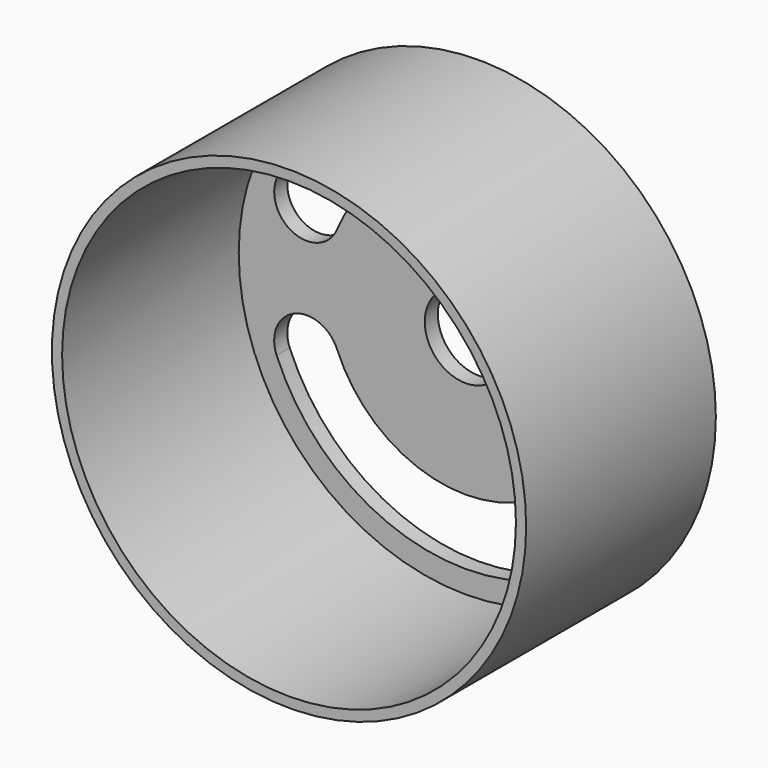
from build123d import *

# Parameters (mm, degrees)
F0_R     = 29
F1_DEPTH = 29
F2_R     = 27.75
F3_DEPTH = 27
F5_DEPTH = 2
F6_R     = 5
F7_DEPTH = 2


with BuildPart() as f1:
    # F0 (on Front) → F1 (new body)
    with BuildSketch(Plane.XZ):
        Circle(F0_R)
    extrude(amount=F1_DEPTH)

    # F2 (on face) → F3 (cut)
    with BuildSketch(Plane.XZ.offset(29)):
        Circle(F2_R)
    extrude(amount=-F3_DEPTH, mode=Mode.SUBTRACT)

    # F4 (on face) → F5 (cut)
    with BuildSketch(Plane(origin=(0, 0, 0), x_dir=(-1, 0, 0), z_dir=(0, 1, 0))):
        with BuildLine():
            ThreePointArc((-15.718109, -6.47619), (-20.940297, -4.301621), (-23.114866, -9.52381))
            ThreePointArc((-23.114866, -9.52381), (0, -25), (23.114866, -9.52381))
            ThreePointArc((23.114866, -9.52381), (20.940297, -4.301621), (15.718109, -6.47619))
            ThreePointArc((15.718109, -6.47619), (0, -17), (-15.718109, -6.47619))
        make_face()
        with BuildLine():
            ThreePointArc((23.114866, 9.52381), (0, 25), (-23.114866, 9.52381))
            ThreePointArc((-23.114866, 9.52381), (-20.940297, 4.301621), (-15.718109, 6.47619))
            ThreePointArc((-15.718109, 6.47619), (0, 17), (15.718109, 6.47619))
            ThreePointArc((15.718109, 6.47619), (20.940297, 4.301621), (23.114866, 9.52381))
        make_face()
    extrude(amount=-F5_DEPTH, mode=Mode.SUBTRACT)

    # F6 (on face) → F7 (cut)
    with BuildSketch(Plane(origin=(0, 0, 0), x_dir=(-1, 0, 0), z_dir=(0, 1, 0))):
        Circle(F6_R)
    extrude(amount=-F7_DEPTH, mode=Mode.SUBTRACT)


solid = f1.part
